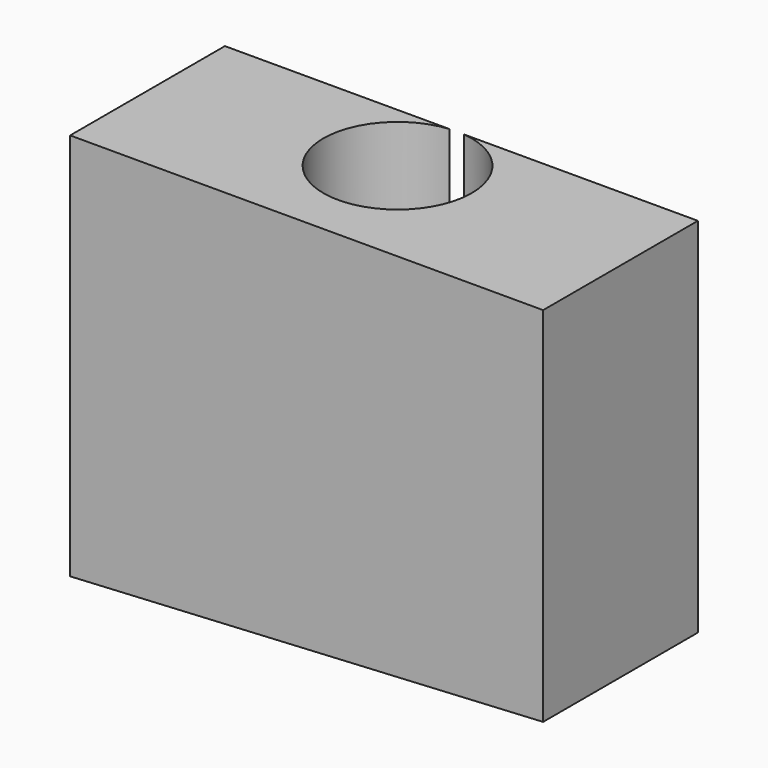
from build123d import *

# Parameters (mm, degrees)
F1_DEPTH = 25
F2_R     = 9.584307
F3_DEPTH = 60


with BuildPart() as f1:
    # F0 (on Front) → F1 (new body)
    with BuildSketch(Plane.XZ):
        Polygon((0, 50.165702), (0, 0), (61.127122, 3.314364), (61.127122, 50.165702), align=None)
    extrude(amount=F1_DEPTH)

    # F2 (on face) → F3 (cut)
    with BuildSketch(Plane.XY.offset(50.165702)):
        with Locations((29.940704, -9.538786)):
            Circle(F2_R)
    extrude(amount=-F3_DEPTH, mode=Mode.SUBTRACT)


solid = f1.part
